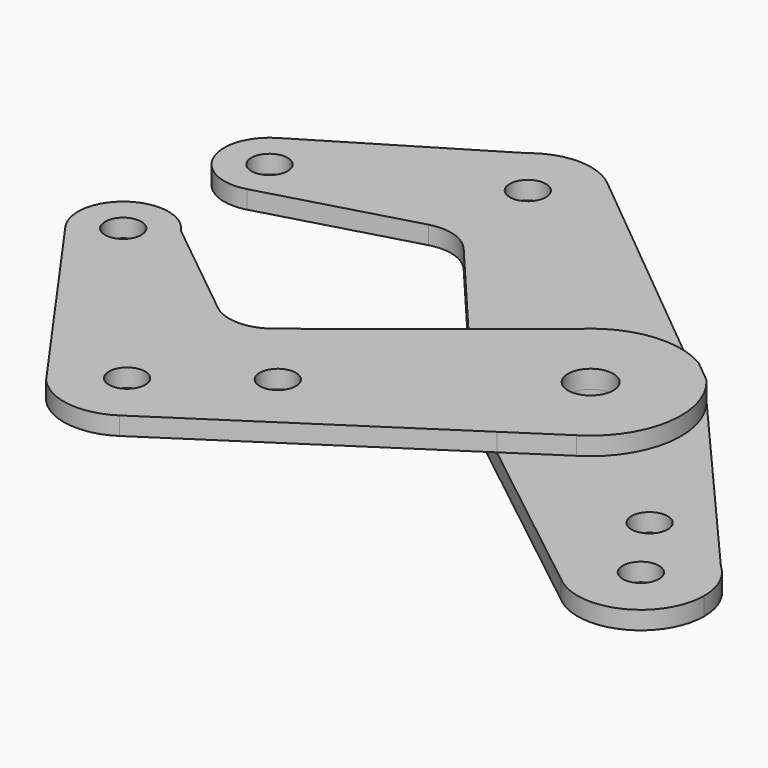
from build123d import *

# Parameters (mm, degrees)
F0_R     = 3.175
F0_R_2   = 3.9751
F1_DEPTH = 3.175
F2_DEPTH = 3.175


with BuildPart() as f1:
    # F0 (on Top) → F1 (new body)
    with BuildSketch(Plane.XY):
        with BuildLine():
            Line((-0.8349510469, -19.5349867808), (-9.809632044, -12.4814560113))
            Line((-9.809632044, -12.4814560113), (-12.1136340173, -10.6706564054))
            Line((-12.1136340173, -10.6706564054), (-22.8000261563, 1.9660169517))
            Line((-22.8000261563, 1.9660169517), (-43.7094443514, -14.6891544663))
            ThreePointArc((-43.7094443514, -14.6891544663), (-48.6832450729, -16.4207806423), (-53.6480566393, -14.6635473224))
            Line((-53.6480566393, -14.6635473224), (-71.8637219282, 0))
            ThreePointArc((-71.8637219282, 0), (-70.8896309848, -2.086747592), (-70.5555605169, -4.3652922154))
            ThreePointArc((-70.5555605169, -4.3652922154), (-76.0837442015, -11.9283009515), (-84.9679324582, -8.9565817503))
            Line((-84.9679324582, -8.9565817503), (-60.04730067, -44.1009346164))
            ThreePointArc((-60.04730067, -44.1009346164), (-53.0801169104, -27.9784594013), (-39.200438323, -38.7409116736))
            ThreePointArc((-39.200438323, -38.7409116736), (-40.5332141075, -44.0177147322), (-44.21184899, -48.0287728484))
            Line((-44.21184899, -48.0287728484), (-0.8349510469, -19.5349867808))
        make_face()
        with Locations((-33.9511684747, -26.1423701917)):
            Circle(F0_R, mode=Mode.SUBTRACT)
        with BuildLine():
            ThreePointArc((8.3474284, -13.5031871833), (13.8659844737, -7.7298188578), (15.875, 0))
            ThreePointArc((15.875, 0), (14.8713201858, 5.5551292453), (11.9871938983, 10.4078243377))
            Line((11.9871938983, 10.4078243377), (7.9078073876, 13.7652536235))
            ThreePointArc((7.9078073876, 13.7652536235), (-2.2163428278, 15.719524467), (-11.4054866017, 11.042214469))
            ThreePointArc((-11.4054866017, 11.042214469), (-15.8385947294, -1.0744961594), (-9.809632044, -12.4814560113))
            ThreePointArc((-9.809632044, -12.4814560113), (-0.891904435, -15.8499252831), (8.3474284, -13.5031871833))
        make_face()
        Circle(F0_R_2, mode=Mode.SUBTRACT)
        with BuildLine():
            Line((-0.8349510469, -19.5349867808), (8.3474284, -13.5031871833))
            ThreePointArc((8.3474284, -13.5031871833), (-0.891904435, -15.8499252831), (-9.809632044, -12.4814560113))
            Line((-9.809632044, -12.4814560113), (-0.8349510469, -19.5349867808))
        make_face()
        with BuildLine():
            Line((-12.1136340173, -10.6706564054), (-9.809632044, -12.4814560113))
            ThreePointArc((-9.809632044, -12.4814560113), (-15.8385947294, -1.0744961594), (-11.4054866017, 11.042214469))
            Line((-11.4054866017, 11.042214469), (-22.8000261563, 1.9660169517))
            Line((-22.8000261563, 1.9660169517), (-12.1136340173, -10.6706564054))
        make_face()
        with BuildLine():
            ThreePointArc((-58.591614895, -46.1538173433), (-51.7497180843, -49.7601366994), (-44.21184899, -48.0287728484))
            ThreePointArc((-44.21184899, -48.0287728484), (-40.5332141075, -44.0177147322), (-39.200438323, -38.7409116736))
            ThreePointArc((-39.200438323, -38.7409116736), (-53.0801169104, -27.9784594013), (-60.04730067, -44.1009346164))
            Line((-60.04730067, -44.1009346164), (-58.591614895, -46.1538173433))
        make_face()
        with Locations((-50.312938323, -38.7409116736)):
            Circle(F0_R, mode=Mode.SUBTRACT)
        with BuildLine():
            ThreePointArc((-71.8637219282, 0), (-82.9720173317, 2.1877873737), (-84.9679324582, -8.9565817503))
            ThreePointArc((-84.9679324582, -8.9565817503), (-76.0837442015, -11.9283009515), (-70.5555605169, -4.3652922154))
            ThreePointArc((-70.5555605169, -4.3652922154), (-70.8896309848, -2.086747592), (-71.8637219282, 0))
        make_face()
        with Locations((-78.4930605169, -4.3652922154)):
            Circle(F0_R, mode=Mode.SUBTRACT)
    extrude(amount=F1_DEPTH)


with BuildPart() as f2:
    # F0 (on Top) → F2 (new body)
    with BuildSketch(Plane.XY):
        with BuildLine():
            ThreePointArc((-11.4054866017, 11.042214469), (-2.2163428278, 15.719524467), (7.9078073876, 13.7652536235))
            Line((7.9078073876, 13.7652536235), (-38.9567118573, 52.3358350009))
            ThreePointArc((-38.9567118573, 52.3358350009), (-35.969517145, 48.4998056315), (-34.905919684, 43.7556287784))
            ThreePointArc((-34.905919684, 43.7556287784), (-50.762596537, 33.7067262395), (-53.0801275106, 52.3358350009))
            Line((-53.0801275106, 52.3358350009), (-82.5989664775, 34.4935936763))
            ThreePointArc((-82.5989664775, 34.4935936763), (-74.5934725961, 34.6141410134), (-70.5555221113, 27.7005732059))
            ThreePointArc((-70.5555221113, 27.7005732059), (-72.167181613, 22.9060296155), (-76.3476854474, 20.0584899266))
            Line((-76.3476854474, 20.0584899266), (-50.357863007, 27.3545264824))
            ThreePointArc((-50.357863007, 27.3545264824), (-45.8781047789, 27.3010164989), (-42.1385570357, 24.8338562331))
            Line((-42.1385570357, 24.8338562331), (-22.8000261563, 1.9660169517))
            Line((-22.8000261563, 1.9660169517), (-11.4054866017, 11.042214469))
        make_face()
        with BuildLine():
            ThreePointArc((-34.905919684, 43.7556287784), (-35.969517145, 48.4998056315), (-38.9567118573, 52.3358350009))
            ThreePointArc((-38.9567118573, 52.3358350009), (-46.018419684, 54.8681287784), (-53.0801275106, 52.3358350009))
            ThreePointArc((-53.0801275106, 52.3358350009), (-50.762596537, 33.7067262395), (-34.905919684, 43.7556287784))
        make_face()
        with Locations((-46.018419684, 43.7556287784)):
            Circle(F0_R, mode=Mode.SUBTRACT)
        with BuildLine():
            ThreePointArc((-70.5555221113, 27.7005732059), (-74.5934725961, 34.6141410134), (-82.5989664775, 34.4935936763))
            ThreePointArc((-82.5989664775, 34.4935936763), (-85.7768432724, 24.5462340449), (-76.3476854474, 20.0584899266))
            ThreePointArc((-76.3476854474, 20.0584899266), (-72.167181613, 22.9060296155), (-70.5555221113, 27.7005732059))
        make_face()
        with Locations((-78.4930221113, 27.7005732059)):
            Circle(F0_R, mode=Mode.SUBTRACT)
        with BuildLine():
            ThreePointArc((8.3474284, -13.5031871833), (13.8659844737, -7.7298188578), (15.875, 0))
            ThreePointArc((15.875, 0), (14.8713201858, 5.5551292453), (11.9871938983, 10.4078243377))
            Line((11.9871938983, 10.4078243377), (7.9078073876, 13.7652536235))
            ThreePointArc((7.9078073876, 13.7652536235), (-2.2163428278, 15.719524467), (-11.4054866017, 11.042214469))
            ThreePointArc((-11.4054866017, 11.042214469), (-15.8385947294, -1.0744961594), (-9.809632044, -12.4814560113))
            ThreePointArc((-9.809632044, -12.4814560113), (-0.891904435, -15.8499252831), (8.3474284, -13.5031871833))
        make_face()
        Circle(F0_R_2, mode=Mode.SUBTRACT)
        with BuildLine():
            Line((-12.1136340173, -10.6706564054), (-9.809632044, -12.4814560113))
            ThreePointArc((-9.809632044, -12.4814560113), (-15.8385947294, -1.0744961594), (-11.4054866017, 11.042214469))
            Line((-11.4054866017, 11.042214469), (-22.8000261563, 1.9660169517))
            Line((-22.8000261563, 1.9660169517), (-12.1136340173, -10.6706564054))
        make_face()
        with BuildLine():
            Line((-0.8349510469, -19.5349867808), (8.3474284, -13.5031871833))
            ThreePointArc((8.3474284, -13.5031871833), (-0.891904435, -15.8499252831), (-9.809632044, -12.4814560113))
            Line((-9.809632044, -12.4814560113), (-0.8349510469, -19.5349867808))
        make_face()
        with BuildLine():
            ThreePointArc((11.9871938983, 10.4078243377), (14.8713201858, 5.5551292453), (15.875, 0))
            ThreePointArc((15.875, 0), (13.8659844737, -7.7298188578), (8.3474284, -13.5031871833))
            Line((8.3474284, -13.5031871833), (-0.8349510469, -19.5349867808))
            Line((-0.8349510469, -19.5349867808), (29.5783978996, -43.4379525427))
            ThreePointArc((29.5783978996, -43.4379525427), (28.4595381375, -27.677953415), (44.2306509757, -26.7285222607))
            Line((44.2306509757, -26.7285222607), (11.9871938983, 10.4078243377))
        make_face()
        with Locations((28.5573815512, -22.772048524)):
            Circle(F0_R, mode=Mode.SUBTRACT)
        with BuildLine():
            ThreePointArc((47.9272357472, -35.0045030227), (46.9610901227, -30.4724892168), (44.2306509757, -26.7285222607))
            ThreePointArc((44.2306509757, -26.7285222607), (28.4595381375, -27.677953415), (29.5783978996, -43.4379525427))
            ThreePointArc((29.5783978996, -43.4379525427), (41.4555251153, -45.1015684524), (47.9272357472, -35.0045030227))
        make_face()
        with Locations((36.8147357472, -35.0045030227)):
            Circle(F0_R, mode=Mode.SUBTRACT)
    extrude(amount=-F2_DEPTH)


solid = Compound([f1.part, f2.part])
